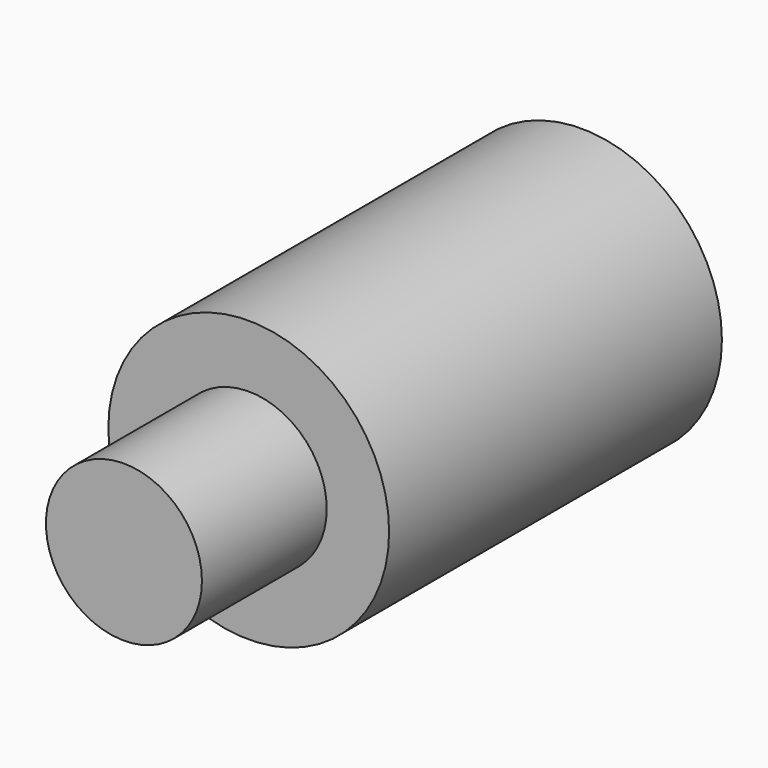
from build123d import *

# Parameters (mm, degrees)
CYLINDER012_R     = 2.7
CYLINDER012_DEPTH = 8
CYLINDER008_R     = 1.5
CYLINDER008_DEPTH = 11


with BuildPart() as cylinder012:
    # Cylinder012 → Cylinder012 (new body)
    with BuildSketch(Plane(origin=(53.5, 37.6, 5), x_dir=(1, 0, 0), z_dir=(0, -1, 0))):
        Circle(CYLINDER012_R)
    extrude(amount=CYLINDER012_DEPTH)


with BuildPart() as fusion016:
    # Cylinder008 → Cylinder008 (new body)
    with BuildSketch(Plane(origin=(53.5, 37.6, 5), x_dir=(1, 0, 0), z_dir=(0, -1, 0))):
        Circle(CYLINDER008_R)
    extrude(amount=CYLINDER008_DEPTH)

    # Fusion016: union Cylinder012
    add(cylinder012.part)


solid = fusion016.part
